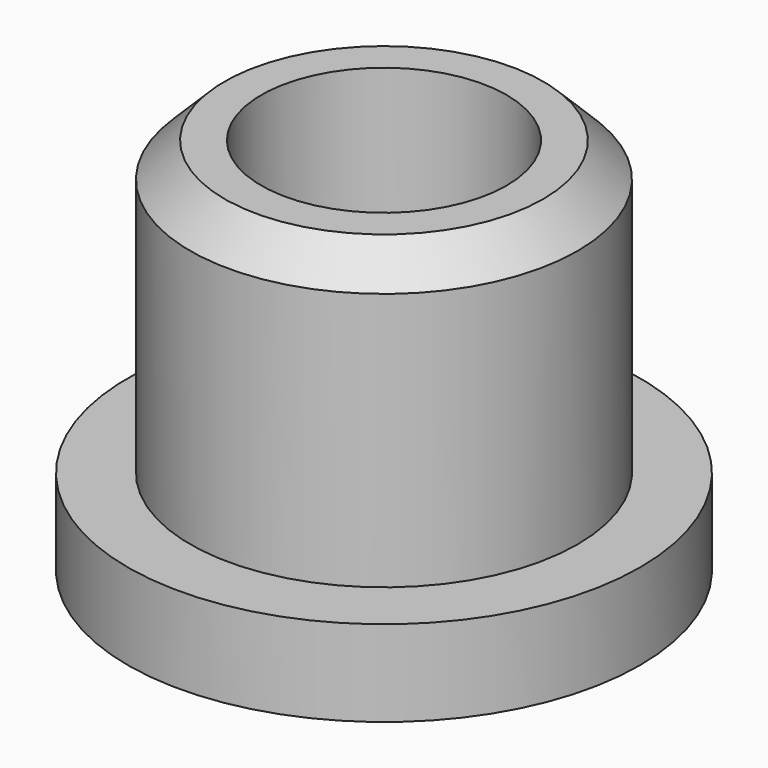
from build123d import *

# Parameters (mm, degrees)
F0_R     = 5.95
F1_DEPTH = 2
F2_R     = 4.5
F3_DEPTH = 6.8
F4_R     = 2.85
F5_DEPTH = 8.801
F6_SIZE  = 0.8


with BuildPart() as f1:
    # F0 (on Top) → F1 (new body)
    with BuildSketch(Plane.XY):
        Circle(F0_R)
    extrude(amount=F1_DEPTH)

    # F2 (on face) → F3 (join)
    with BuildSketch(Plane.XY.offset(2)):
        Circle(F2_R)
    extrude(amount=F3_DEPTH)

    # F4 (on face) → F5 (cut, through all)
    with BuildSketch(Plane.XY.offset(8.8)):
        Circle(F4_R)
    extrude(amount=-F5_DEPTH, mode=Mode.SUBTRACT)

    # F6
    f6_edges = [f1.edges().sort_by_distance(p)[0] for p in [
        (-4.5, 0, 8.8),
    ]]
    chamfer(f6_edges, length=F6_SIZE)


solid = f1.part
